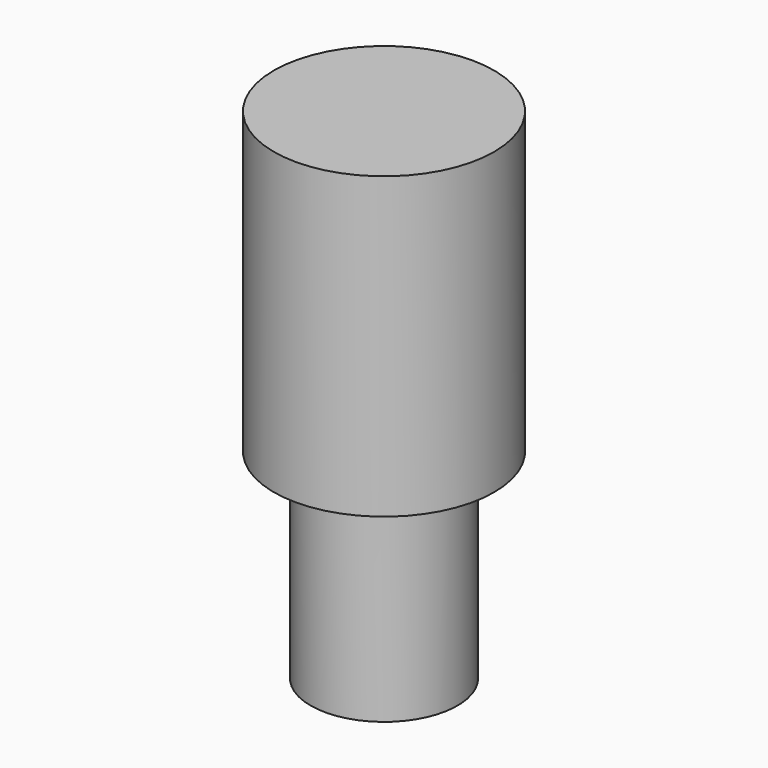
from build123d import *

# Parameters (mm, degrees)
SKETCH003_R  = 30
PAD002_DEPTH = 81.6
SKETCH004_R  = 20
PAD003_DEPTH = 54.4


with BuildPart() as part:
    # Sketch003 (on DatumPlane) → Pad002 (new body)
    with BuildSketch(Plane(origin=(0, 0, 0), x_dir=(-1, 0, 0), z_dir=(0, 0, -1))):
        with Locations((-0.005294, 0)):
            Circle(SKETCH003_R)
    extrude(amount=PAD002_DEPTH)

    # Sketch004 (on DatumPlane) → Pad003 (join)
    with BuildSketch(Plane(origin=(0, 0, -81.6), x_dir=(-1, 0, 0), z_dir=(0, 0, -1))):
        with Locations((-0.026582, 0)):
            Circle(SKETCH004_R)
    extrude(amount=PAD003_DEPTH)


solid = part.part
